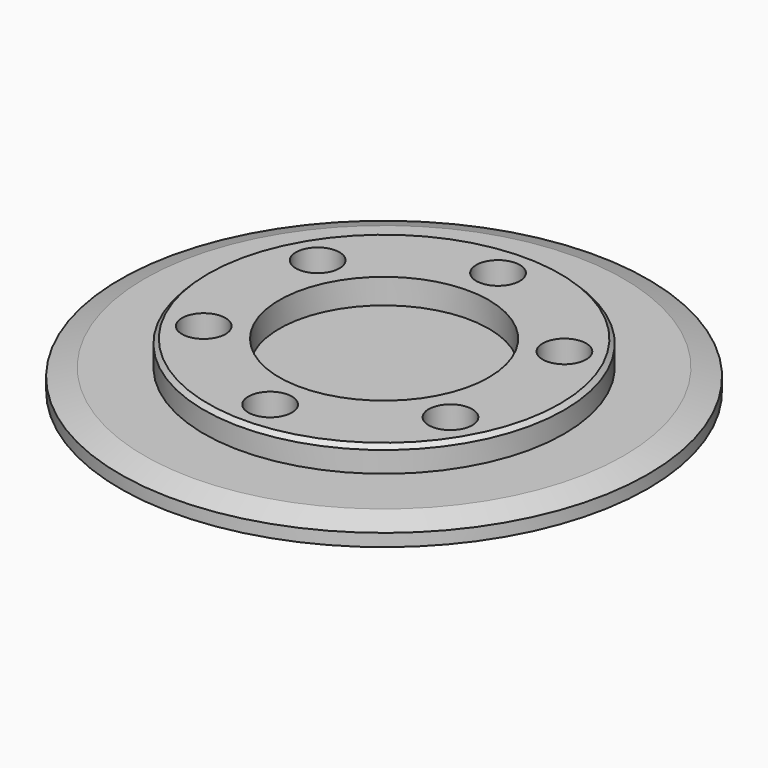
from build123d import *

# Parameters (mm, degrees)
F0_R     = 31.5
F1_DEPTH = 2.5
F2_R     = 21.5
F3_DEPTH = 3
F4_SIZE2 = 1
F4_SIZE  = 2.9
F5_R     = 2.6
F6_DEPTH = 5.5
F8_COUNT = 6
F7_R     = 12.5
F9_DEPTH = 3
F10_SIZE = 0.5


with BuildPart() as f1:
    # F0 (on Top) → F1 (new body)
    with BuildSketch(Plane.XY):
        Circle(F0_R)
    extrude(amount=F1_DEPTH)

    # F2 (on face) → F3 (join)
    with BuildSketch(Plane.XY.offset(2.5)):
        Circle(F2_R)
    extrude(amount=F3_DEPTH)

    # F4
    f4_edges = [f1.edges().sort_by_distance(p)[0] for p in [
        (-31.5, 0, 2.5),
    ]]
    f4_side = f1.faces().sort_by_distance((-30.609045, 0, 2.5))[0]
    chamfer(f4_edges, length=F4_SIZE, length2=F4_SIZE2, reference=f4_side)

    # F5 (on face) → F6 (cut, through all)
    with BuildSketch(Plane.XY.offset(5.5)):
        with Locations((0, 17)):
            Circle(F5_R)
    f6 = extrude(amount=-F6_DEPTH, mode=Mode.SUBTRACT)

    # F8: F6 ×6 about axis
    f8_axis = Axis((0, 0, 5.5), (0, 0, 1))
    for i in range(1, F8_COUNT):
        add(f6.rotate(f8_axis, i * 360 / F8_COUNT), mode=Mode.SUBTRACT)

    # F7 (on face) → F9 (cut)
    with BuildSketch(Plane.XY.offset(5.5)):
        Circle(F7_R)
    extrude(amount=-F9_DEPTH, mode=Mode.SUBTRACT)

    # F10
    f10_edges = [f1.edges().sort_by_distance(p)[0] for p in [
        (-21.5, 0, 5.5),
    ]]
    chamfer(f10_edges, length=F10_SIZE)


solid = f1.part
